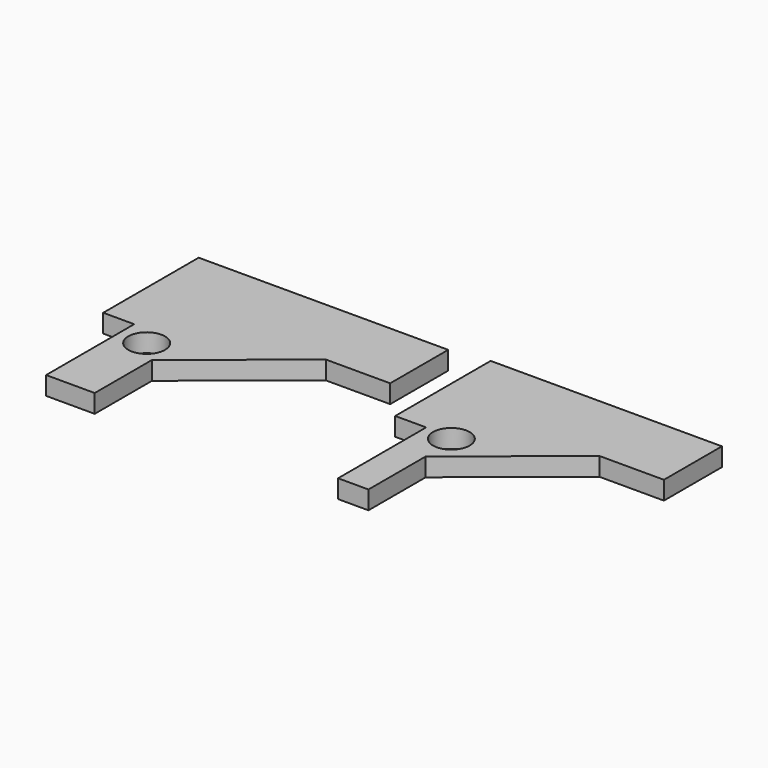
from build123d import *

# Parameters (mm, degrees)
F0_R     = 10
F2_DEPTH = 10
F1_R     = 10
F3_DEPTH = 10


with BuildPart() as f2:
    # F0 (on Top) → F2 (new body)
    with BuildSketch(Plane.XY):
        Polygon((66.923017, 58.689907), (-69.011015, 58.689907), (-69.011015, -6.310093), (-52.142164, -6.310093), (-52.142164, -66.310093), (-25.642164, -66.310093), (-25.642164, -27.310093), (31.923017, 19.189907), (66.923017, 19.189907), align=None)
        with Locations((-37.117013, -16.593009)):
            Circle(F0_R, mode=Mode.SUBTRACT)
    extrude(amount=F2_DEPTH)


with BuildPart() as f3:
    # F1 (on Top) → F3 (new body)
    with BuildSketch(Plane.XY):
        Polygon((213.384705, 62.028292), (87.384705, 62.028292), (87.384705, -2.971708), (104.253556, -2.971708), (104.253556, -62.971708), (120.819525, -62.971708), (120.819525, -23.971708), (178.384705, 22.528292), (213.384705, 22.528292), align=None)
        with Locations((119.175255, -4.474771)):
            Circle(F1_R, mode=Mode.SUBTRACT)
    extrude(amount=F3_DEPTH)


solid = Compound([f2.part, f3.part])
